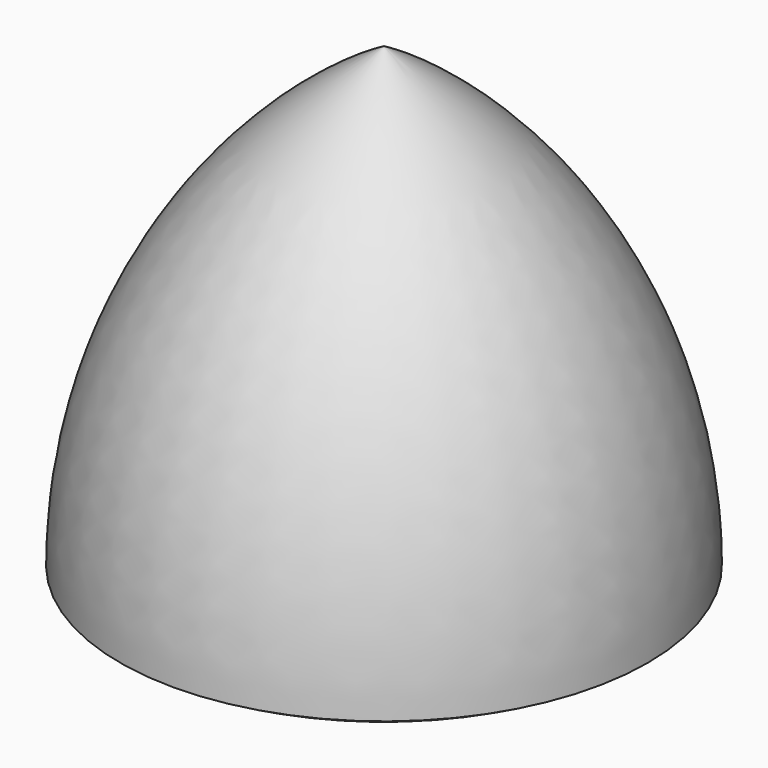
from build123d import *


with BuildPart() as f2:
    # F0 (on Front) → F2 (revolve)
    with BuildSketch(Plane.XZ):
        with BuildLine():
            Line((0, 43.994091), (0, -6.805909))
            ThreePointArc((0, -6.805909), (13.148007, -5.074941), (25.4, 0))
            ThreePointArc((25.4, 0), (18.594091, 25.4), (0, 43.994091))
        make_face()
    revolve(axis=Axis((0, 0, 20.360705), (0, 0, 1)))


solid = f2.part
